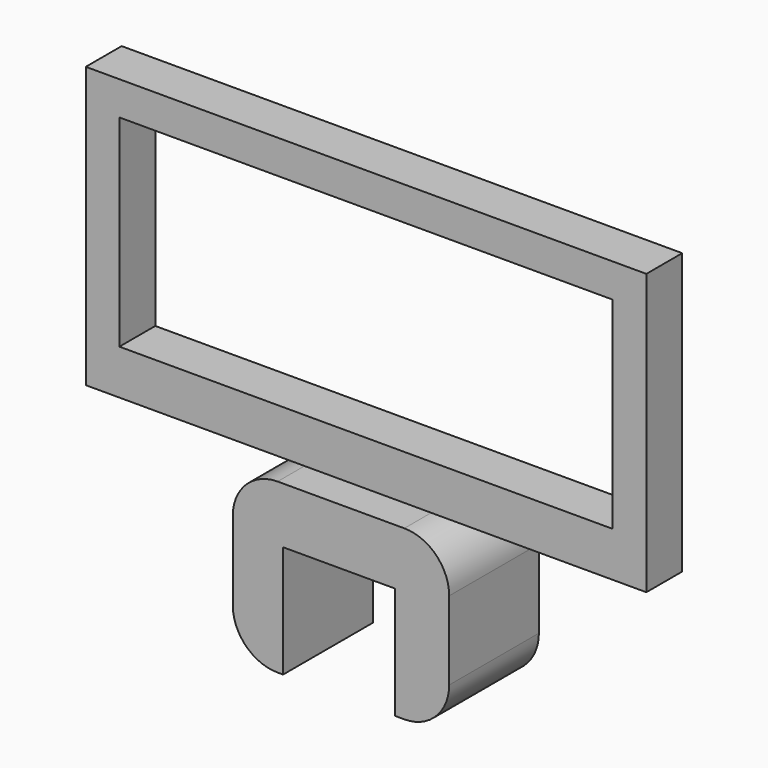
from build123d import *

# Parameters (mm, degrees)
F0_W     = 12.7
F0_H     = 6.35
F1_DEPTH = 12.7
F2_R     = 5.08
F3_W     = 24.7787790167
F3_H     = 5.08
F3_W_2   = 24.3673952091
F3_W_3   = 14.3538257742
F4_DEPTH = 31.75
F5_W     = 55.88
F5_H     = 22.86
F6_DEPTH = 25.4


with BuildPart() as f1:
    # F0 (on Front) → F1 (new body)
    with BuildSketch(Plane.XZ):
        Polygon((-6.35, -3.175), (-6.35, 3.175), (-12.0512209833, 3.175), (-12.0512209833, -15.875), (-6.35, -15.875), align=None)
        Rectangle(F0_W, F0_H)
        Polygon((12.4626047909, 3.175), (6.35, 3.175), (6.35, -3.175), (6.35, -15.875), (12.4626047909, -15.875), align=None)
    extrude(amount=F1_DEPTH)

    # F2
    f2_edges = [f1.edges().sort_by_distance(p)[0] for p in [
        (-12.051221, -6.35, 3.175),
        (12.462605, -6.35, 3.175),
        (-12.051221, -6.35, -15.875),
        (12.462605, -6.35, -15.875),
    ]]
    fillet(f2_edges, radius=F2_R)

    # F3 (on face) → F4 (join)
    with BuildSketch(Plane.XY.offset(3.175)):
        with Locations((-19.3606104916, -6.35)):
            Rectangle(F3_W, F3_H)
        with Locations((19.5663023955, -6.35)):
            Rectangle(F3_W_2, F3_H)
        with Locations((0.2056919038, -6.35)):
            Rectangle(F3_W_3, F3_H)
    extrude(amount=F4_DEPTH)

    # F5 (on face) → F6 (cut)
    with BuildSketch(Plane.XZ.offset(8.89)):
        with Locations((0, 19.685)):
            Rectangle(F5_W, F5_H)
    extrude(amount=-F6_DEPTH, mode=Mode.SUBTRACT)


solid = f1.part
